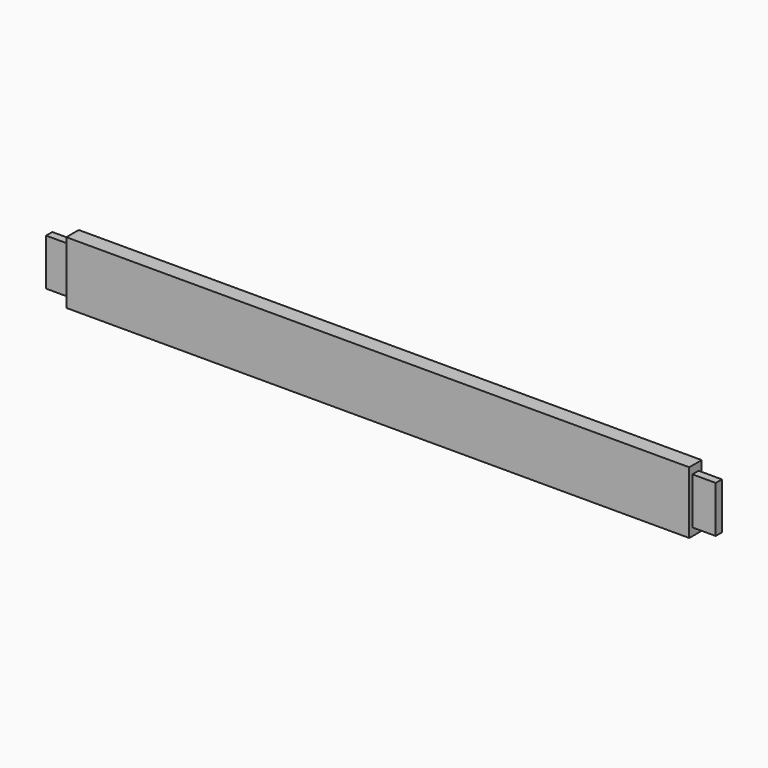
from build123d import *

# Parameters (mm, degrees)
F0_W          = 2032
F0_H          = 203.2
F1_DEPTH      = 25.4
F1_DEPTH_BACK = 25.4
F2_W          = 25.4
F2_H          = 152.4
F3_DEPTH      = 76.2
F4_W          = 25.4
F4_H          = 152.4
F5_DEPTH      = 76.2


with BuildPart() as f1:
    # F0 (on Front) → F1 (new body, two sides)
    with BuildSketch(Plane.XZ) as f1_sk:
        Rectangle(F0_W, F0_H)
    extrude(amount=F1_DEPTH)
    extrude(f1_sk.sketch, amount=-F1_DEPTH_BACK)

    # F2 (on face) → F3 (join)
    with BuildSketch(Plane.YZ.offset(1016)):
        Rectangle(F2_W, F2_H)
    extrude(amount=F3_DEPTH)

    # F4 (on face) → F5 (join)
    with BuildSketch(Plane(origin=(-1016, 0, 0), x_dir=(0, -1, 0), z_dir=(-1, 0, 0))):
        Rectangle(F4_W, F4_H)
    extrude(amount=F5_DEPTH)


solid = f1.part
